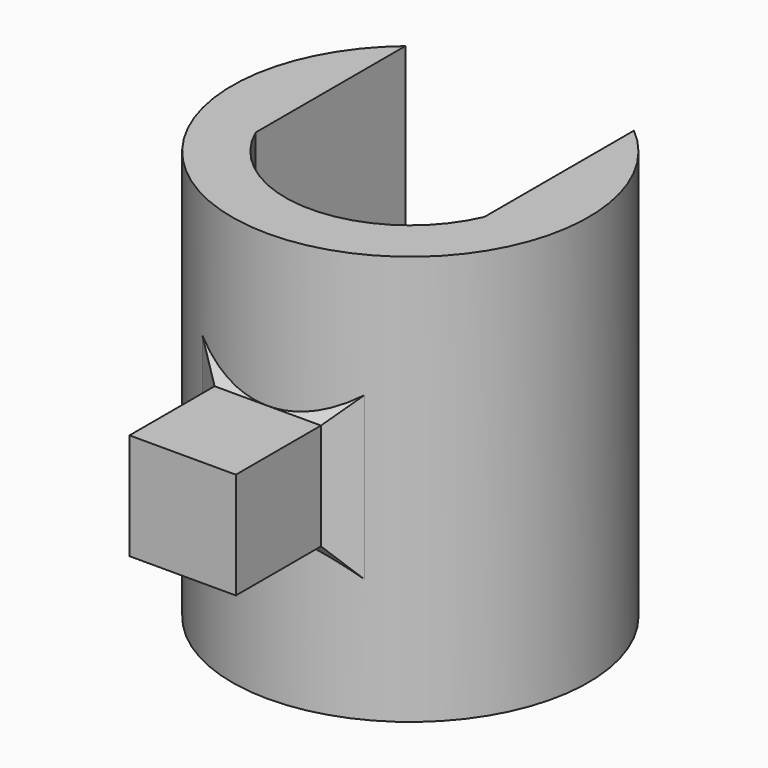
from build123d import *

# Parameters (mm, degrees)
F1_DEPTH      = 38.5
F3_W          = 10
F3_H          = 10
F4_DEPTH      = 10
F4_DEPTH_BACK = 4
F4_TAPER_BACK = -55


with BuildPart() as f1:
    # F0 (on Top) → F1 (new body)
    with BuildSketch(Plane.XY):
        with BuildLine():
            ThreePointArc((10.75, -4.7434164903), (0, -11.75), (-10.75, -4.7434164903))
            Line((-10.75, -4.7434164903), (-10.75, 12.8452325787))
            ThreePointArc((-10.75, 12.8452325787), (0, -16.75), (10.75, 12.8452325787))
            Line((10.75, 12.8452325787), (10.75, -4.7434164903))
        make_face()
    extrude(amount=F1_DEPTH)

    # F3 (on offset) → F4 (join, two sides)
    with BuildSketch(Plane.XZ.offset(16.75)) as f4_sk:
        with Locations((0, 19.25)):
            Rectangle(F3_W, F3_H)
    extrude(amount=F4_DEPTH)
    extrude(f4_sk.sketch, amount=-F4_DEPTH_BACK, taper=F4_TAPER_BACK)


solid = f1.part
